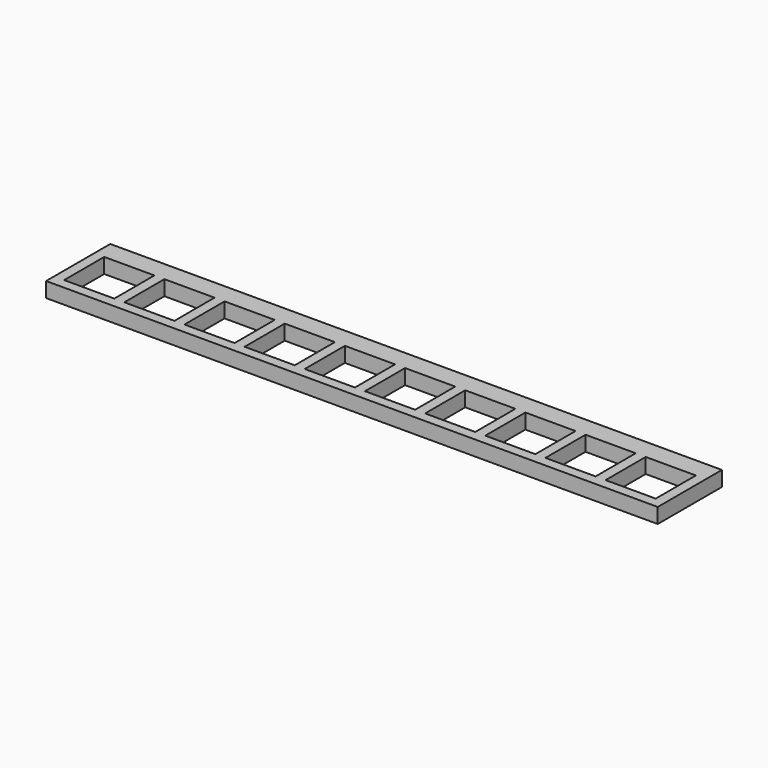
from build123d import *

# Parameters (mm, degrees)
BOX_W         = 10
BOX_H         = 10
BOX_DEPTH     = 10
ARRAY_X_COUNT = 10
ARRAY_X_PITCH = 12
BOX001_W      = 122
BOX001_H      = 16
BOX001_DEPTH  = 3


with BuildPart() as array:
    # Box → Box (new body)
    with BuildSketch(Plane.XY):
        with Locations((5, 5)):
            Rectangle(BOX_W, BOX_H)
    extrude(amount=BOX_DEPTH)

    # Array X: Array ×10


with BuildPart() as array_1:
    add(array.part)
    with Locations(*[(i * ARRAY_X_PITCH, 0, 0) for i in range(1, ARRAY_X_COUNT)]):
        add(array.part)


with BuildPart() as obj1:
    # Box001 → Box001 (new body)
    with BuildSketch(Plane(origin=(-2, -2, 4), x_dir=(1, 0, 0), z_dir=(0, 0, 1))):
        with Locations((61, 8)):
            Rectangle(BOX001_W, BOX001_H)
    extrude(amount=BOX001_DEPTH)

    # Cut: cut Array
    add(array_1.part, mode=Mode.SUBTRACT)


solid = obj1.part
